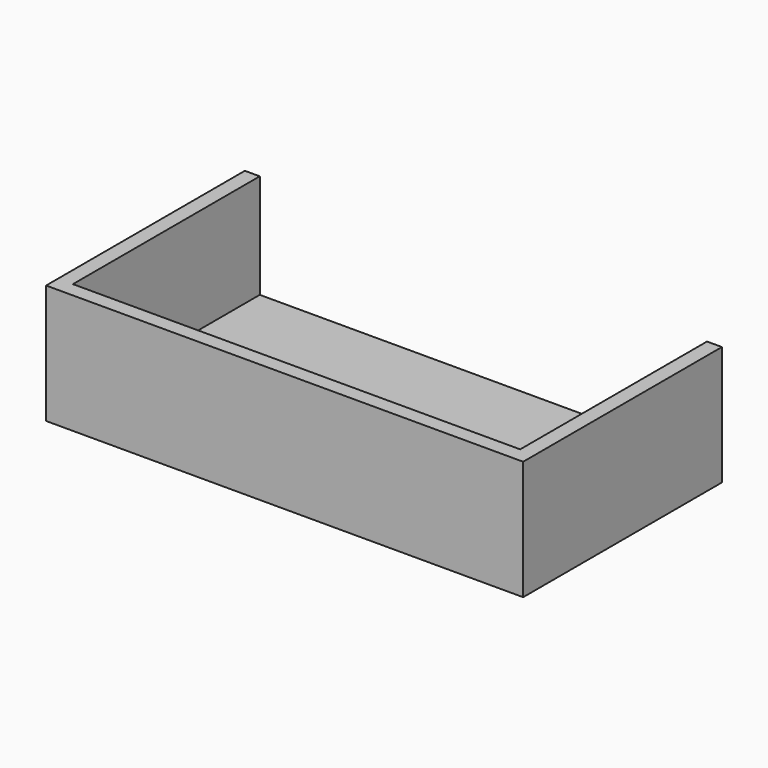
from build123d import *

# Parameters (mm, degrees)
F0_W     = 152.4
F0_H     = 79.375
F1_DEPTH = 38.1
F2_T     = -4.7625


with BuildPart() as f1:
    # F0 (on Top) → F1 (new body)
    with BuildSketch(Plane.XY):
        Rectangle(F0_W, F0_H)
    extrude(amount=F1_DEPTH)

    # F2
    f2_openings = [f1.faces().sort_by_distance(p)[0] for p in [
        (0, 0, 38.1),
        (0, 39.6875, 19.05),
    ]]
    offset(amount=F2_T, openings=f2_openings)


solid = f1.part
